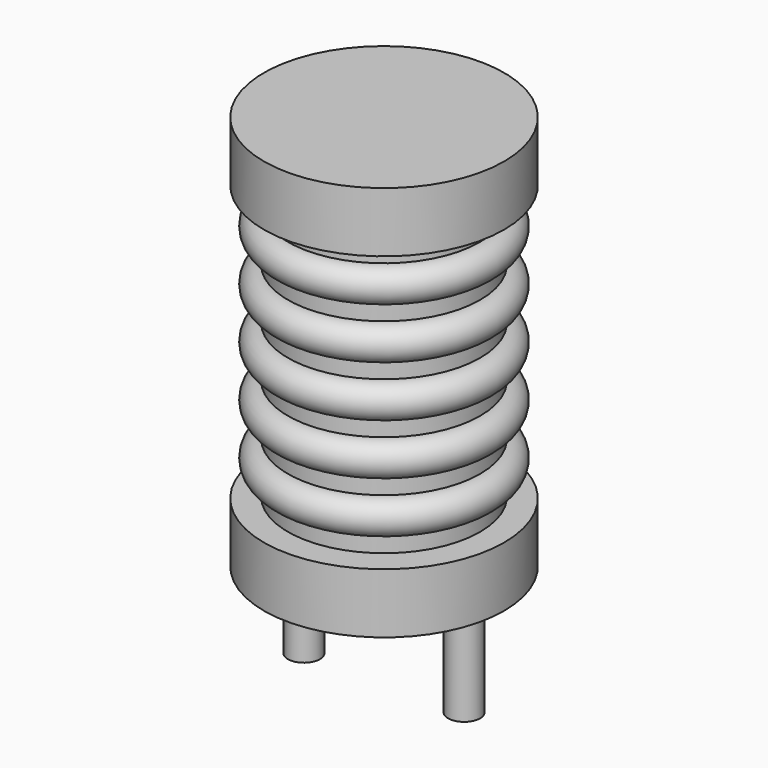
from build123d import *

# Parameters (mm, degrees)
SKETCH001_R  = 0.5
PAD001_DEPTH = 3.5


with BuildPart() as pad001:
    # Sketch001 → Pad001 (new body)
    with BuildSketch(Plane.XY.offset(0.5)):
        Circle(SKETCH001_R)
        with Locations((5, 0)):
            Circle(SKETCH001_R)
    extrude(amount=-PAD001_DEPTH)


with BuildPart() as revolution:
    # Sketch → Revolution (revolve)
    with BuildSketch(Plane(origin=(2.5, 0, 0), x_dir=(1, 0, 0), z_dir=(0, -1, 0))):
        Polygon((0, 0.05), (1.5, 0.05), (1.5, 0.2), (3.75, 0.2), (3.75, 2.075), (0.75, 2.075), (0.75, 10.675), (3.75, 10.675), (3.75, 12.55), (0, 12.55), align=None)
    revolve(axis=Axis((2.5, 0, 0), (0, 0, 1)))


with BuildPart() as revolution001:
    # Sketch002 → Revolution001 (revolve)
    with BuildSketch(Plane(origin=(2.5, 0, 0), x_dir=(1, 0, 0), z_dir=(0, -1, 0))):
        with BuildLine():
            Line((3, 2.125), (0.75, 2.125))
            Line((0.75, 2.125), (0.75, 10.625))
            Line((0.75, 10.625), (3, 10.625))
            Line((3, 10.625), (3, 10.09375))
            ThreePointArc((3, 9.03125), (3.53125, 9.5625), (3, 10.09375))
            Line((3, 9.03125), (3, 8.5))
            ThreePointArc((3, 7.4375), (3.53125, 7.96875), (3, 8.5))
            Line((3, 7.4375), (3, 6.90625))
            ThreePointArc((3, 5.84375), (3.53125, 6.375), (3, 6.90625))
            Line((3, 5.84375), (3, 5.3125))
            ThreePointArc((3, 4.25), (3.53125, 4.78125), (3, 5.3125))
            Line((3, 4.25), (3, 3.71875))
            ThreePointArc((3, 2.65625), (3.53125, 3.1875), (3, 3.71875))
            Line((3, 2.125), (3, 2.65625))
        make_face()
    revolve(axis=Axis((2.5, 0, 0), (0, 0, 1)))


solid = Compound([pad001.part, revolution.part, revolution001.part])
